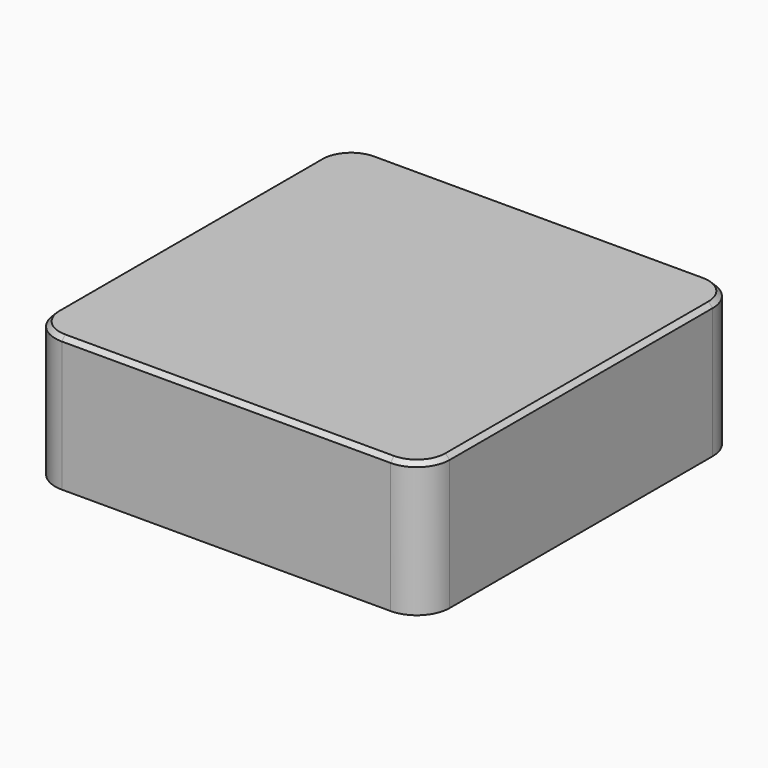
from build123d import *

# Parameters (mm, degrees)
PAD_DEPTH    = 6.15
POCKET_DEPTH = 3
PAD001_DEPTH = 4
CHAMFER_SIZE = 0.2


with BuildPart() as part:
    # Sketch → Pad (new body)
    with BuildSketch(Plane.XY):
        with BuildLine():
            Line((-9, 7.5), (-9, -7.5))
            ThreePointArc((-9, -7.5), (-8.56066, -8.56066), (-7.5, -9))
            Line((-7.5, -9), (7.5, -9))
            ThreePointArc((7.5, -9), (8.56066, -8.56066), (9, -7.5))
            Line((9, -7.5), (9, 7.5))
            ThreePointArc((9, 7.5), (8.56066, 8.56066), (7.5, 9))
            Line((7.5, 9), (-7.5, 9))
            ThreePointArc((-7.5, 9), (-8.56066, 8.56066), (-9, 7.5))
        make_face()
    extrude(amount=PAD_DEPTH)

    # Sketch001 (on Face9 of Pad) → Pocket (cut)
    with BuildSketch(Plane(origin=(0, 0, 0), x_dir=(1, 0, 0), z_dir=(0, 0, -1))):
        with BuildLine():
            Line((-7.8, 6.3), (-7.8, -6.3))
            ThreePointArc((-7.8, -6.3), (-7.36066, -7.36066), (-6.3, -7.8))
            Line((-6.3, -7.8), (6.3, -7.8))
            ThreePointArc((6.3, -7.8), (7.36066, -7.36066), (7.8, -6.3))
            Line((7.8, -6.3), (7.8, 6.3))
            ThreePointArc((7.8, 6.3), (7.36066, 7.36066), (6.3, 7.8))
            Line((6.3, 7.8), (-6.3, 7.8))
            ThreePointArc((-6.3, 7.8), (-7.36066, 7.36066), (-7.8, 6.3))
        make_face()
    extrude(amount=-POCKET_DEPTH, mode=Mode.SUBTRACT)

    # Sketch002 (on Face19 of Pocket) → Pad001 (join)
    with BuildSketch(Plane(origin=(0, 0, 3), x_dir=(1, 0, 0), z_dir=(0, 0, -1))):
        Polygon((-3.425, -1.45), (-2.275, -1.45), (-2.275, -0.2), (-2.175, -0.2), (-2.175, 0.2), (-2.275, 0.2), (-2.275, 1.45), (-3.425, 1.45), (-3.425, 0.2), (-3.525, 0.2), (-3.525, -0.2), (-3.425, -0.2), align=None)
        Polygon((3.425, 1.45), (2.275, 1.45), (2.275, 0.2), (2.175, 0.2), (2.175, -0.2), (2.275, -0.2), (2.275, -1.45), (3.425, -1.45), (3.425, -0.2), (3.525, -0.2), (3.525, 0.2), (3.425, 0.2), align=None)
    extrude(amount=PAD001_DEPTH)

    # Chamfer
    chamfer_edges = [part.edges().sort_by_distance(p)[0] for p in [
        (0, -9, 6.15),
    ]]
    chamfer(chamfer_edges, length=CHAMFER_SIZE)


solid = part.part
